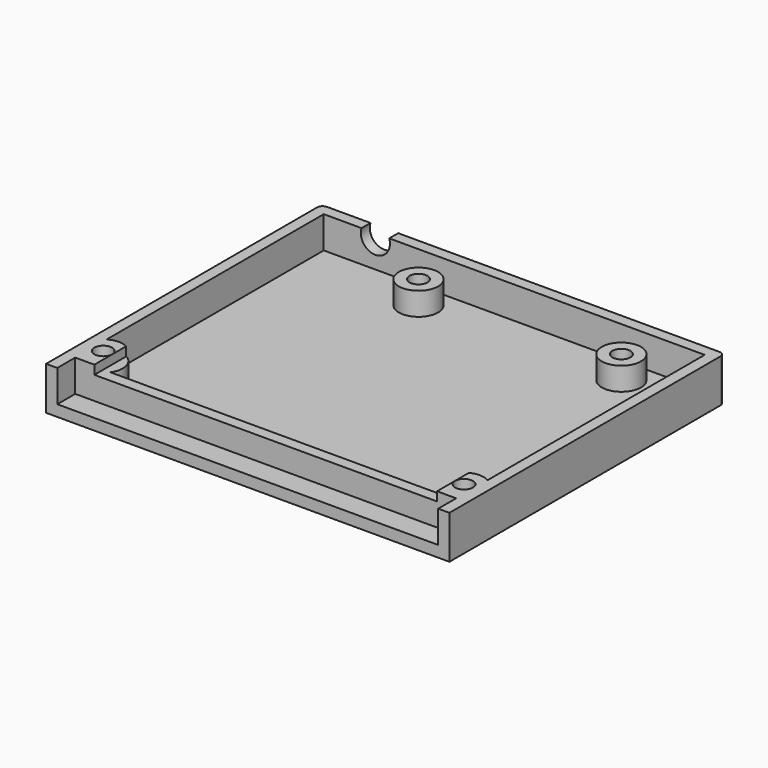
from build123d import *

# Parameters (mm, degrees)
EXTRUDE013_DEPTH = 2
SKETCH002_R      = 3.5
SKETCH002_R_2    = 1.6
EXTRUDE002_DEPTH = 4.1
SKETCH003_R      = 1.6
EXTRUDE003_DEPTH = 1.6
EXTRUDE008_DEPTH = 4
EXTRUDE001_DEPTH = 5.7
SKETCH_R         = 1.6
EXTRUDE_DEPTH    = 2


with BuildPart() as extrude013:
    # Sketch013 (on Face1 of Fusion) → Extrude013 (new body)
    with BuildSketch(Plane(origin=(0, 0, 0), x_dir=(1, 0, 0), z_dir=(0, 0, -1))):
        Polygon((6.484679, -9.55), (6.484679, -6.45), (3.8, -4.9), (1.115321, -6.45), (1.115321, -9.55), (3.8, -11.1), align=None)
        Polygon((68.16, -11.1), (70.844679, -9.55), (70.844679, -6.45), (68.16, -4.9), (65.475321, -6.45), (65.475321, -9.55), align=None)
        Polygon((61.524679, -53.2), (58.84, -51.65), (56.155321, -53.2), (56.155321, -56.3), (58.84, -57.85), (61.524679, -56.3), align=None)
        Polygon((25.324679, -53.2), (22.64, -51.65), (19.955321, -53.2), (19.955321, -56.3), (22.64, -57.85), (25.324679, -56.3), align=None)
    extrude(amount=-EXTRUDE013_DEPTH)


with BuildPart() as extrude002:
    # Sketch002 (on Face12 of Extrude) → Extrude002 (new body)
    with BuildSketch(Plane.XY.offset(2)):
        with Locations((22.64, 54.75)):
            Circle(SKETCH002_R)
        with Locations((22.64, 54.75)):
            Circle(SKETCH002_R_2, mode=Mode.SUBTRACT)
        with Locations((58.84, 54.75)):
            Circle(SKETCH002_R)
        with Locations((58.84, 54.75)):
            Circle(SKETCH002_R_2, mode=Mode.SUBTRACT)
        with BuildLine():
            ThreePointArc((6.672281, 6), (6.357658, 10.389223), (2, 11.001666))
            Line((2, 4), (2, 11.001666))
            Line((2, 4), (69.96, 4))
            Line((69.96, 4), (69.96, 11.001666))
            ThreePointArc((69.96, 11.001666), (65.602342, 10.389223), (65.287719, 6))
            Line((65.287719, 6), (6.672281, 6))
        make_face()
        with Locations((3.8, 8)):
            Circle(SKETCH002_R_2, mode=Mode.SUBTRACT)
        with Locations((68.16, 8)):
            Circle(SKETCH002_R_2, mode=Mode.SUBTRACT)
    extrude(amount=EXTRUDE002_DEPTH)


with BuildPart() as extrude003:
    # Sketch003 (on Face10 of Extrude002) → Extrude003 (new body)
    with BuildSketch(Plane.XY.offset(6.1)):
        with BuildLine():
            Line((66.55, 4), (69.96, 4))
            Line((69.96, 4), (69.96, 11.001666))
            ThreePointArc((69.96, 11.001666), (68.268796, 11.498309), (66.55, 11.107716))
            Line((66.55, 11.107716), (66.55, 4))
        make_face()
        with Locations((68.16, 8)):
            Circle(SKETCH003_R, mode=Mode.SUBTRACT)
        with BuildLine():
            ThreePointArc((5.41, 11.107716), (3.691204, 11.498309), (2, 11.001666))
            Line((2, 11.001666), (2, 4))
            Line((2, 4), (5.41, 4))
            Line((5.41, 11.107716), (5.41, 4))
        make_face()
        with Locations((3.8, 8)):
            Circle(SKETCH003_R, mode=Mode.SUBTRACT)
    extrude(amount=EXTRUDE003_DEPTH)


with BuildPart() as extrude008:
    # Sketch008 (on Face9 of Extrude001) → Extrude008 (new body)
    with BuildSketch(Plane(origin=(0, 61.42, 0), x_dir=(-1, 0, 0), z_dir=(0, 1, 0))):
        with BuildLine():
            ThreePointArc((-13.683863, 7.7), (-11.21, 4.3), (-8.736137, 7.7))
            Line((-13.683863, 7.7), (-8.736137, 7.7))
        make_face()
    extrude(amount=-EXTRUDE008_DEPTH)


with BuildPart() as cut:
    # Sketch001 (on Face12 of Extrude) → Extrude001 (new body)
    with BuildSketch(Plane.XY.offset(2)):
        with BuildLine():
            Line((0, 0), (0, 60.42))
            ThreePointArc((1, 61.42), (0.292893, 61.127107), (0, 60.42))
            Line((1, 61.42), (70.96, 61.42))
            ThreePointArc((71.96, 60.42), (71.667107, 61.127107), (70.96, 61.42))
            Line((71.96, 60.42), (71.96, 0))
            Line((71.96, 0), (69.96, 0))
            Line((69.96, 0), (69.96, 59.42))
            Line((69.96, 59.42), (2, 59.42))
            Line((2, 59.42), (2, 0))
            Line((2, 0), (0, 0))
        make_face()
    extrude(amount=EXTRUDE001_DEPTH)

    # Cut: cut Extrude008
    add(extrude008.part, mode=Mode.SUBTRACT)


with BuildPart() as cut005:
    # Sketch → Extrude (new body)
    with BuildSketch(Plane.XY):
        with BuildLine():
            Line((0, 0), (71.96, 0))
            Line((71.96, 0), (71.96, 60.42))
            ThreePointArc((71.96, 60.42), (71.667107, 61.127107), (70.96, 61.42))
            Line((70.96, 61.42), (1, 61.42))
            ThreePointArc((1, 61.42), (0.292893, 61.127107), (0, 60.42))
            Line((0, 60.42), (0, 0))
        make_face()
        with Locations((22.64, 54.75)):
            Circle(SKETCH_R, mode=Mode.SUBTRACT)
        with Locations((58.84, 54.75)):
            Circle(SKETCH_R, mode=Mode.SUBTRACT)
        with Locations((3.8, 8)):
            Circle(SKETCH_R, mode=Mode.SUBTRACT)
        with Locations((68.16, 8)):
            Circle(SKETCH_R, mode=Mode.SUBTRACT)
    extrude(amount=EXTRUDE_DEPTH)

    # Fusion: union Extrude002, Extrude003, Cut
    add(extrude002.part)
    add(extrude003.part)
    add(cut.part)

    # Cut005: cut Extrude013
    add(extrude013.part, mode=Mode.SUBTRACT)


solid = cut005.part
